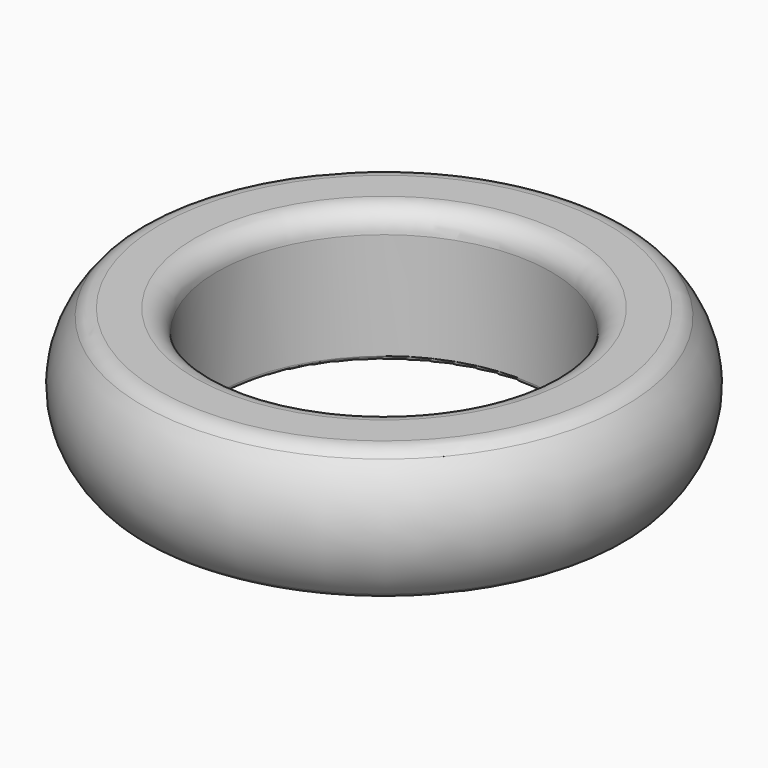
from build123d import *


with BuildPart() as f1:
    # F0 (on Front) → F1 (revolve)
    with BuildSketch(Plane.XZ):
        with BuildLine():
            ThreePointArc((-0.2, 0), (-0.058579, 0.058579), (0, 0.2))
            Line((0, 0.2), (0, 5))
            ThreePointArc((0, 5), (-0.292893, 5.707107), (-1, 6))
            Line((-1, 6), (-2.590317, 6))
            ThreePointArc((-2.590317, 6), (-2.998565, 5.912871), (-3.335673, 5.666667))
            ThreePointArc((-3.335673, 5.666667), (-4.354249, 3), (-3.335673, 0.333333))
            ThreePointArc((-3.335673, 0.333333), (-2.998565, 0.087129), (-2.590317, 0))
            Line((-2.590317, 0), (-0.2, 0))
        make_face()
    revolve(axis=Axis((7.5, 0, 2.6), (0, 0, 1)))


solid = f1.part
